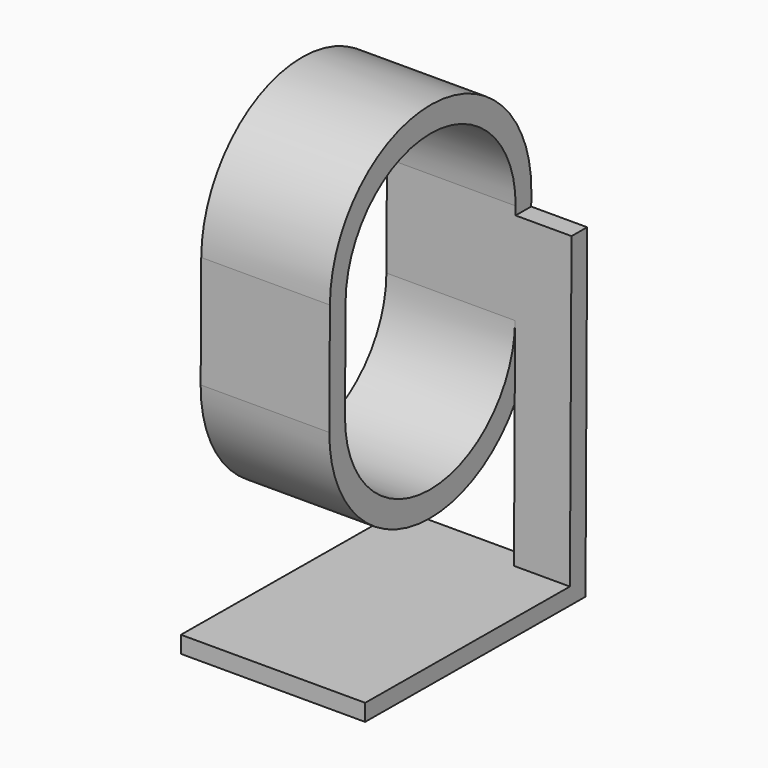
from build123d import *

# Parameters (mm, degrees)
PAD_DEPTH            = 23
POCKET_DEPTH         = 25
SKETCH002_W          = 15
SKETCH002_H          = 3.5
PAD001_DEPTH         = 10
SKETCH003_W          = 3.5
SKETCH003_H          = 10
PAD002_DEPTH         = 40
SKETCH004_W          = 49.242171
SKETCH004_H          = 32.94012
PAD003_DEPTH         = 3
BODY_PLACEMENT_ANGLE = 90.375075


with BuildPart() as part:
    # Sketch → Pad (new body)
    with BuildSketch(Plane.YZ):
        with BuildLine():
            ThreePointArc((-10, 22.5), (-32.5, 0), (-10, -22.5))
            Line((-10, -22.5), (10, -22.5))
            ThreePointArc((10, -22.5), (32.5, 0), (10, 22.5))
            Line((-10, 22.5), (10, 22.5))
        make_face()
    extrude(amount=PAD_DEPTH)

    # Sketch001 (on Face6 of Pad) → Pocket (cut)
    with BuildSketch(Plane.YZ.offset(23)):
        with BuildLine():
            ThreePointArc((-9, 19), (-28, 0), (-9, -19))
            Line((-9, -19), (9, -19))
            ThreePointArc((9, -19), (28, 0), (9, 19))
            Line((-9, 19), (9, 19))
        make_face()
    extrude(amount=-POCKET_DEPTH, mode=Mode.SUBTRACT)

    # Sketch002 (on Face5 of Pocket) → Pad001 (join)
    with BuildSketch(Plane.YZ.offset(23)):
        with Locations((0, 20.75)):
            Rectangle(SKETCH002_W, SKETCH002_H)
    extrude(amount=PAD001_DEPTH)

    # Sketch003 (on Face13 of Pad001) → Pad002 (join)
    with BuildSketch(Plane.ZX.offset(7.5)):
        with Locations((20.75, 28)):
            Rectangle(SKETCH003_W, SKETCH003_H)
    extrude(amount=PAD002_DEPTH)

    # Sketch004 (on Face18 of Pad002) → Pad003 (join)
    with BuildSketch(Plane.ZX.offset(47.5)):
        with Locations((-2.121085, 16.52994)):
            Rectangle(SKETCH004_W, SKETCH004_H)
    extrude(amount=PAD003_DEPTH)


with BuildPart() as part_1:
    # Body placement: moved
    add(part.part.moved(Location((0, 0.13901, -0.480614))).rotate(Axis((0, 0.13901, -0.480614), (-1, 0, 0)), BODY_PLACEMENT_ANGLE))


solid = part_1.part
